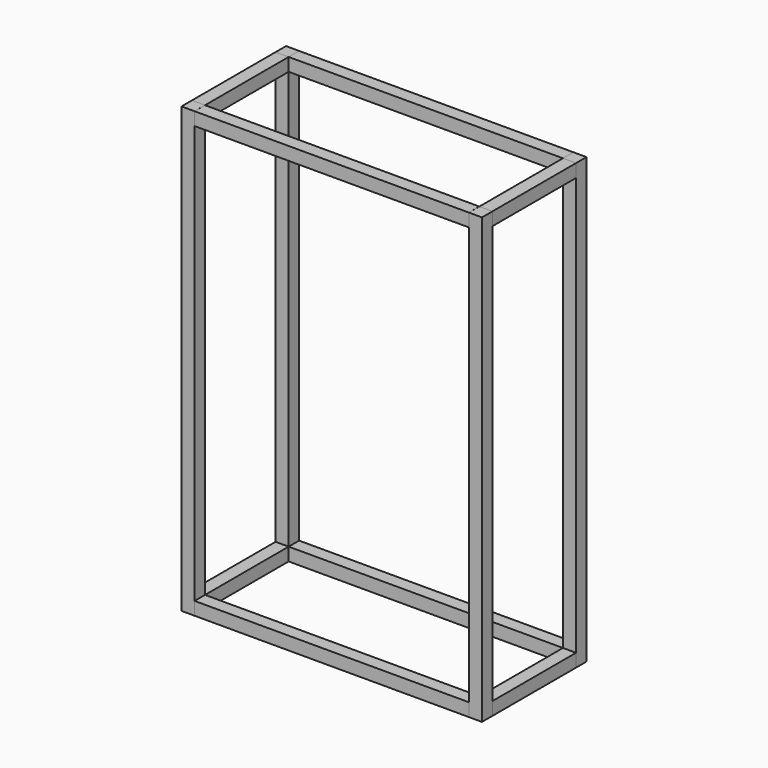
from build123d import *

# Parameters (mm, degrees)
F0_W     = 50
F0_H     = 1700
F0_W_2   = 1049.8
F0_H_2   = 50
F1_DEPTH = 50
F2_W     = 50
F2_H     = 50
F3_DEPTH = 400


with BuildPart() as f1:
    # F0 (on Front) → F1 (new body)
    with BuildSketch(Plane.XZ):
        with Locations((-550, 850)):
            Rectangle(F0_W, F0_H)
        with Locations((0, 1675)):
            Rectangle(F0_W_2, F0_H_2)
        with Locations((0, 25)):
            Rectangle(F0_W_2, F0_H_2)
        with Locations((550, 850)):
            Rectangle(F0_W, F0_H)
    extrude(amount=F1_DEPTH)


with BuildPart() as f3:
    # F2 (on face) → F3 (new body)
    with BuildSketch(Plane.XZ.offset(50)):
        with Locations((-550, 1675)):
            Rectangle(F2_W, F2_H)
        with Locations((550, 1675)):
            Rectangle(F2_W, F2_H)
        with Locations((550, 25)):
            Rectangle(F2_W, F2_H)
        with Locations((-550, 25)):
            Rectangle(F2_W, F2_H)
    extrude(amount=F3_DEPTH)


with BuildPart() as f4_1:
    # F4: copy of F1
    add(f1.part.moved(Location((0, -450, 0))))


solid = Compound([f1.part, f3.part, f4_1.part])
